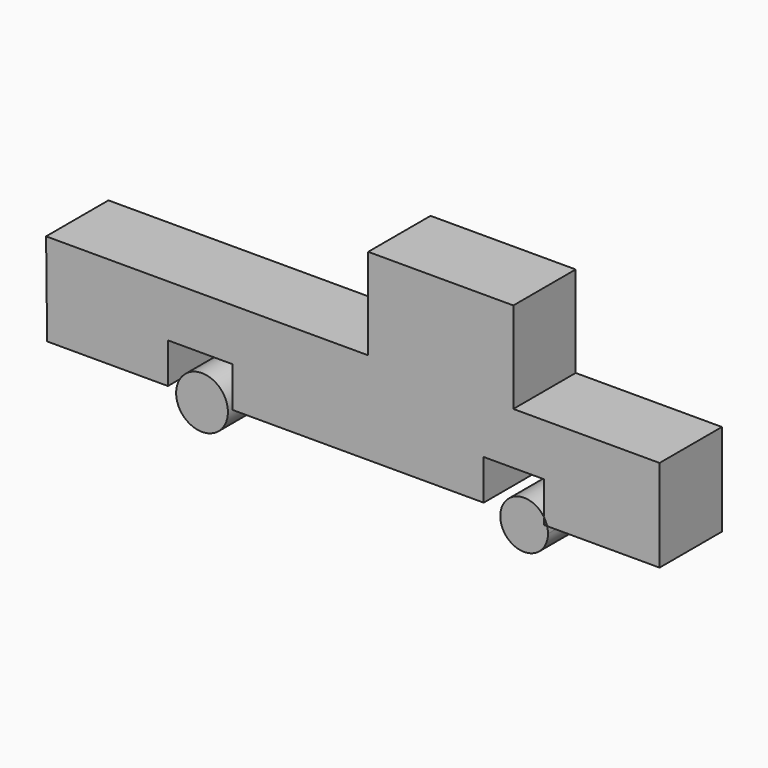
from build123d import *

# Parameters (mm, degrees)
F0_R     = 8.440014
F1_DEPTH = 25.4


with BuildPart() as f1:
    # F0 (on Front) → F1 (new body)
    with BuildSketch(Plane.XZ):
        with BuildLine():
            Line((-116.343424, -29.69001), (-115.998186, -59.725258))
            Line((-115.998186, -59.725258), (-76.641664, -59.725258))
            Line((-76.641664, -59.725258), (-76.641664, -46.606414))
            Line((-76.641664, -46.606414), (-55.582467, -46.606414))
            Line((-55.582467, -46.606414), (-55.582467, -59.725258))
            Line((-55.582467, -59.725258), (26.237682, -59.725258))
            Line((26.237682, -59.725258), (26.237682, -46.606414))
            Line((26.237682, -46.606414), (45.91595, -46.606414))
            Line((45.91595, -46.606414), (45.91595, -57.515192))
            ThreePointArc((45.91595, -57.515192), (46.503827, -58.580895), (46.918259, -59.725258))
            Line((46.918259, -59.725258), (83.546318, -59.725258))
            Line((83.546318, -59.725258), (83.546318, -29.69001))
            Line((83.546318, -29.69001), (35.904203, -29.69001))
            Line((35.904203, -29.69001), (35.904203, 0))
            Line((35.904203, 0), (-11.392683, 0))
            Line((-11.392683, 0), (-11.392683, -29.69001))
            Line((-11.392683, -29.69001), (-116.343424, -29.69001))
        make_face()
        with BuildLine():
            Line((45.91595, -59.725258), (45.91595, -57.515192))
            ThreePointArc((45.91595, -57.515192), (31.969619, -64.02661), (47.198268, -61.793457))
            ThreePointArc((47.198268, -61.793457), (47.127948, -60.749923), (46.918259, -59.725258))
            Line((46.918259, -59.725258), (45.91595, -59.725258))
        make_face()
        with Locations((-65.535746, -60.831124)):
            Circle(F0_R)
    extrude(amount=-F1_DEPTH)


solid = f1.part
